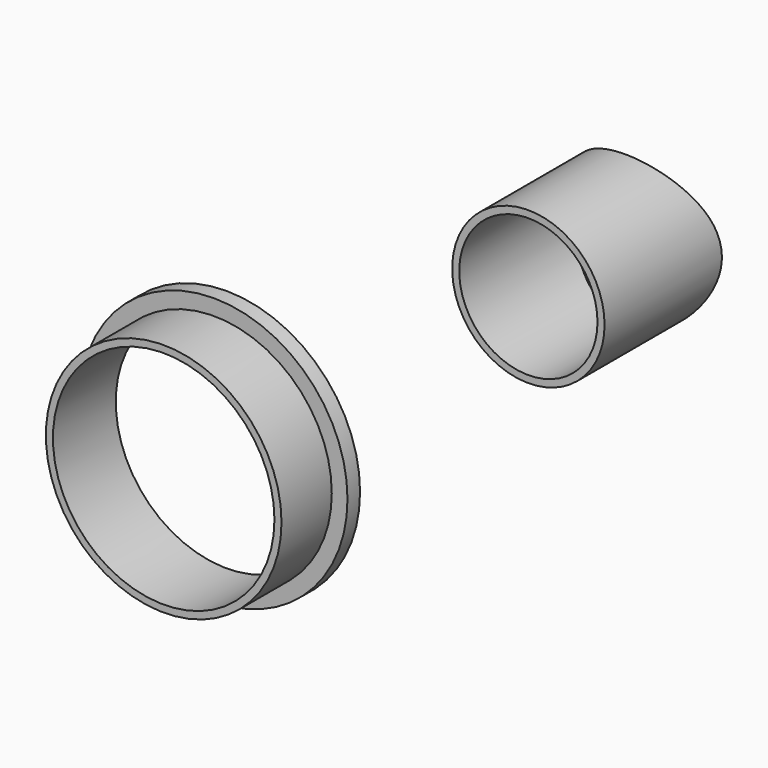
from build123d import *

# Parameters (mm, degrees)
F0_R          = 4.85
F0_R_2        = 4.4
F1_DEPTH      = 10
F2_R          = 8
F3_DEPTH      = 25
F3_DEPTH_BACK = 25
F4_R          = 7.5
F4_R_2        = 7.05
F5_DEPTH      = 5
F4_R_3        = 8.5
F6_DEPTH      = 1


with BuildPart() as f1:
    # F0 (on Front) → F1 (new body)
    with BuildSketch(Plane.XZ):
        Circle(F0_R)
        Circle(F0_R_2, mode=Mode.SUBTRACT)
    extrude(amount=-F1_DEPTH)

    # F2 (on Top) → F3 (cut, two sides)
    with BuildSketch(Plane.XY) as f3_sk:
        with Locations((0, 15.7)):
            Circle(F2_R)
    extrude(amount=-F3_DEPTH, mode=Mode.SUBTRACT)
    extrude(f3_sk.sketch, amount=F3_DEPTH_BACK, mode=Mode.SUBTRACT)


with BuildPart() as f5:
    # F4 (on Front) → F5 (new body)
    with BuildSketch(Plane.XZ):
        with Locations((-19.2136187106, -14.4250961021)):
            Circle(F4_R)
        with Locations((-19.2136187106, -14.4250961021)):
            Circle(F4_R_2, mode=Mode.SUBTRACT)
    extrude(amount=F5_DEPTH)

    # F4 (on Front) → F6 (join)
    with BuildSketch(Plane.XZ):
        with Locations((-19.2136187106, -14.4250961021)):
            Circle(F4_R_3)
        with Locations((-19.2136187106, -14.4250961021)):
            Circle(F4_R, mode=Mode.SUBTRACT)
    extrude(amount=F6_DEPTH)


solid = Compound([f1.part, f5.part])
